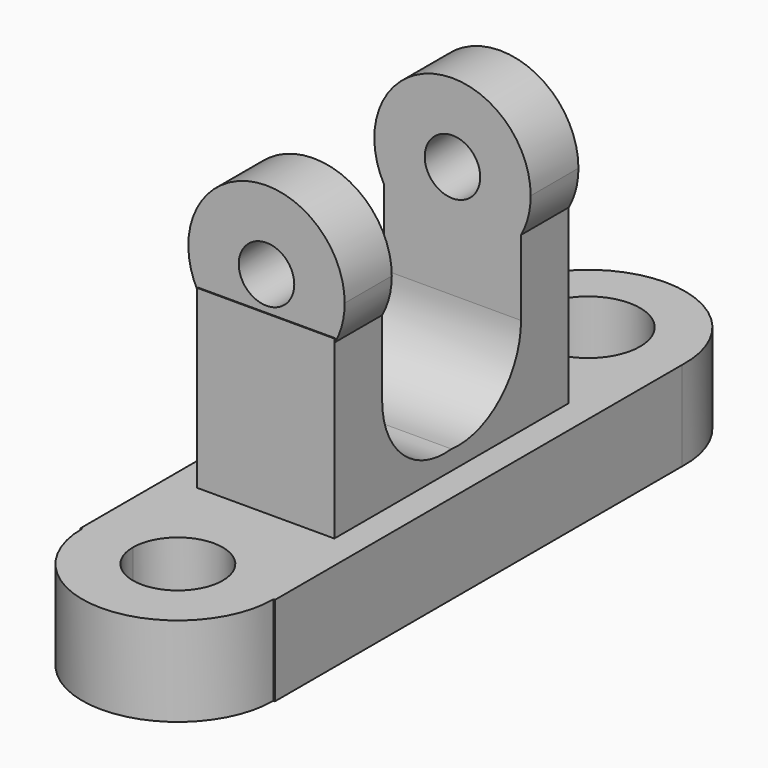
from build123d import *

# Parameters (mm, degrees)
F1_DEPTH      = 25.4
F2_W          = 38.9676727355
F2_H          = 83.2322090864
F3_DEPTH      = 50.038
F6_START      = -0.254
F5_R          = 7.8901435138
F6_DEPTH      = 83.058
F8_DEPTH      = 47.1165622497
F8_DEPTH_BACK = 8.1488895142


with BuildPart() as f1:
    # F0 (on Top) → F1 (new body)
    with BuildSketch(Plane.XY):
        with BuildLine():
            Line((-27.6095401496, 71.7521590341), (-27.6095401496, -72.8592127562))
            Line((-27.6095401496, -72.8592127562), (-27.1735749765, -72.8592127562))
            ThreePointArc((-27.1735749765, -72.8592127562), (0, -100.0327877326), (27.1735749765, -72.8592127562))
            Line((27.1735749765, -72.8592127562), (27.6095401496, -72.8592127562))
            Line((27.6095401496, -72.8592127562), (27.6095401496, 71.7521590341))
            ThreePointArc((27.6095401496, 71.7521590341), (0, 100.4909386381), (-27.6095401496, 71.7521590341))
        make_face()
        with BuildLine():
            ThreePointArc((-12.7623392826, -72.8592127562), (0, -60.0968734736), (12.7623392826, -72.8592127562))
            ThreePointArc((12.7623392826, -72.8592127562), (0, -85.6215520387), (-12.7623392826, -72.8592127562))
        make_face(mode=Mode.SUBTRACT)
        with BuildLine():
            ThreePointArc((14.8305593579, 72.8592127562), (0, 58.0286533983), (-14.8305593579, 72.8592127562))
            ThreePointArc((-14.8305593579, 72.8592127562), (0, 87.689772114), (14.8305593579, 72.8592127562))
        make_face(mode=Mode.SUBTRACT)
    extrude(amount=F1_DEPTH)

    # F2 (on face) → F3 (join)
    with BuildSketch(Plane.XY.offset(25.4)):
        Rectangle(F2_W, F2_H)
    extrude(amount=F3_DEPTH)

    # F5 (on face) → F6 (join)
    with BuildSketch(Plane.XZ.offset(41.6161045432).offset(F6_START)):
        with BuildLine():
            ThreePointArc((19.4838363677, 74.4076669397), (21.5273694016, 79.5792249141), (22.2230663556, 85.0962027907))
            ThreePointArc((22.2230663556, 85.0962027907), (-5.5169778767, 106.6235721923), (-19.4838363677, 74.4076669397))
            Line((-19.4838363677, 74.4076669397), (-19.4838363677, 75.438))
            Line((-19.4838363677, 75.438), (19.4838363677, 75.438))
            Line((19.4838363677, 75.438), (19.4838363677, 74.4076669397))
        make_face()
        with Locations((0, 85.0962027907)):
            Circle(F5_R, mode=Mode.SUBTRACT)
    extrude(amount=-F6_DEPTH)

    # F7 (on face) → F8 (cut, two sides)
    with BuildSketch(Plane.YZ.offset(19.4838363677)) as f8_sk:
        with BuildLine():
            Line((24.7208084911, 53.0094616115), (24.7208084911, 74.4076669397))
            Line((24.7208084911, 74.4076669397), (-24.6291831136, 74.4076669397))
            Line((-24.6291831136, 74.4076669397), (-24.6291831136, 53.0094616115))
            ThreePointArc((-24.6291831136, 53.0094616115), (-17.2473636439, 36.4565333824), (0, 30.8870505542))
            ThreePointArc((0, 30.8870505542), (17.3054188168, 36.4224226696), (24.7208084911, 53.0094616115))
        make_face()
        Polygon((24.7208084911, 74.4076669397), (24.7208084911, 108.5037675067), (-24.6291831136, 108.1680555029), (-24.6291831136, 74.4076669397), align=None)
    extrude(amount=-F8_DEPTH, mode=Mode.SUBTRACT)
    extrude(f8_sk.sketch, amount=F8_DEPTH_BACK, mode=Mode.SUBTRACT)


solid = f1.part
